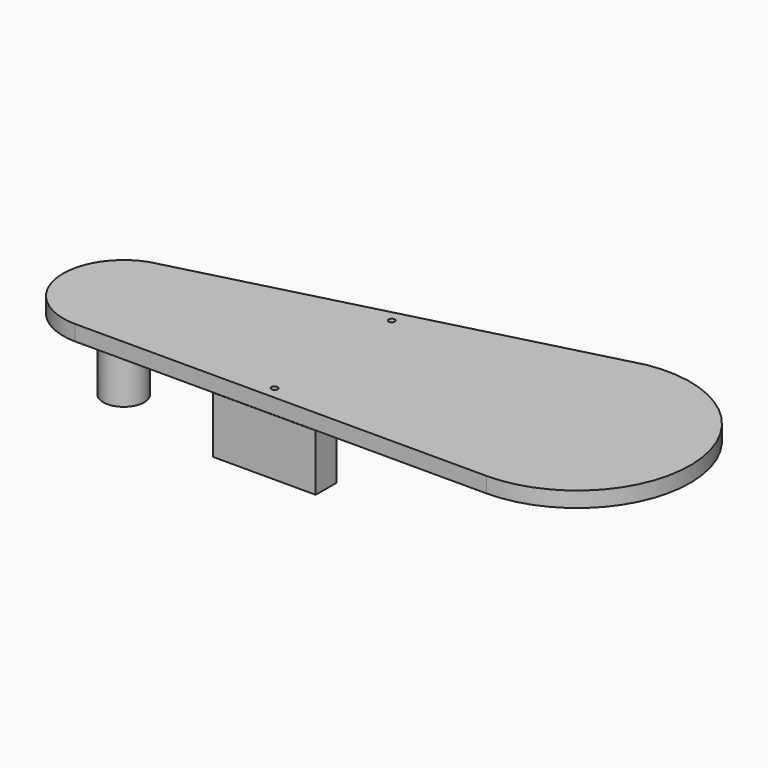
from build123d import *

# Parameters (mm, degrees)
CYLINDER012_R          = 0.6
CYLINDER012_DEPTH      = 20
CYLINDER011_R          = 0.6
CYLINDER011_DEPTH      = 20
BOX010_W               = 20
BOX010_H               = 5
BOX010_DEPTH           = 11
PAD001_DEPTH           = 3
SKETCH005_R            = 4
PAD002_DEPTH           = 8
SKETCH006_R            = 4
PAD003_DEPTH           = 14
BOX009_W               = 20
BOX009_H               = 5
BOX009_DEPTH           = 11
BOX009_PLACEMENT_ANGLE = 14


with BuildPart() as cylinder047:
    # Cylinder012 → Cylinder012 (new body)
    with BuildSketch(Plane(origin=(55, 19, -5), x_dir=(1, 0, 0), z_dir=(0, 0, 1))):
        Circle(CYLINDER012_R)
    extrude(amount=CYLINDER012_DEPTH)


with BuildPart() as cylinder046:
    # Cylinder011 → Cylinder011 (new body)
    with BuildSketch(Plane(origin=(55, -9.5, -5), x_dir=(1, 0, 0), z_dir=(0, 0, 1))):
        Circle(CYLINDER011_R)
    extrude(amount=CYLINDER011_DEPTH)


with BuildPart() as cube010:
    # Box010 → Box010 (new body)
    with BuildSketch(Plane(origin=(45, -12, -0.5), x_dir=(1, 0, 0), z_dir=(0, 0, 1))):
        with Locations((10, 2.5)):
            Rectangle(BOX010_W, BOX010_H)
    extrude(amount=BOX010_DEPTH)


with BuildPart() as pad003:
    # Sketch004 → Pad001 (new body)
    with BuildSketch(Plane.XY.offset(10.5)):
        with BuildLine():
            ThreePointArc((14.120466, 10.991566), (6.522754, -2.168145), (18.163211, -11.935589))
            Line((18.163211, -11.935589), (98.163211, -11.935589))
            ThreePointArc((98.163211, -11.935589), (120.099455, 12.003546), (94.339546, 31.769884))
            Line((14.120466, 10.991566), (94.339546, 31.769884))
        make_face()
    extrude(amount=PAD001_DEPTH)

    # Sketch005 → Pad002 (new body)
    with BuildSketch(Plane(origin=(0, 0, 10.5), x_dir=(1, 0, 0), z_dir=(0, 0, -1))):
        with Locations((98.0594, -10.0638)):
            Circle(SKETCH005_R)
    extrude(amount=PAD002_DEPTH)

    # Sketch006 → Pad003 (new body)
    with BuildSketch(Plane(origin=(0, 0, 10.5), x_dir=(1, 0, 0), z_dir=(0, 0, -1))):
        with Locations((18.0594, 0)):
            Circle(SKETCH006_R)
    extrude(amount=PAD003_DEPTH)


with BuildPart() as tapa_con_taladros:
    # Box009 → Box009 (new body)
    with BuildSketch(Plane.XY):
        with Locations((10, 2.5)):
            Rectangle(BOX009_W, BOX009_H)
    extrude(amount=BOX009_DEPTH)


with BuildPart() as tapa_con_taladros_1:
    # Box009 placement: moved
    add(tapa_con_taladros.part.moved(Location((45, 14, -0.5))).rotate(Axis((45, 14, -0.5), (0, 0, 1)), BOX009_PLACEMENT_ANGLE))

    # Fusion005: union Cube010, Pad003
    add(cube010.part)
    add(pad003.part)

    # Cut011: cut Cylinder046
    add(cylinder046.part, mode=Mode.SUBTRACT)

    # Cut012: cut Cylinder047
    add(cylinder047.part, mode=Mode.SUBTRACT)


with BuildPart() as tapa_con_taladros_2:
    # Cut012 placement: moved
    add(tapa_con_taladros_1.part.moved(Location((-21, -19, 89))))


solid = tapa_con_taladros_2.part
